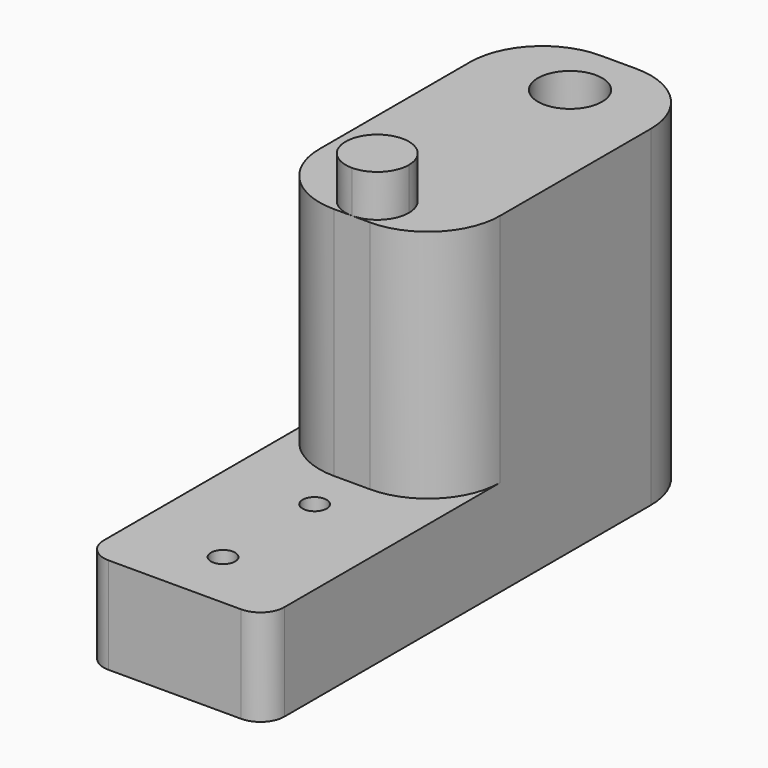
from build123d import *

# Parameters (mm, degrees)
F0_R     = 1
F2_DEPTH = 8
F0_R_2   = 2.667
F3_DEPTH = 27.5
F4_DEPTH = 31
F5_DEPTH = 23.5


with BuildPart() as f2:
    # F0 (on Top) → F2 (new body)
    with BuildSketch(Plane.XY):
        with BuildLine():
            Line((1.5, 24.5531070977), (0, 24.5531070977))
            Line((0, 24.5531070977), (-1.5, 24.5531070977))
            ThreePointArc((-1.5, 24.5531070977), (-5.7426406871, 26.3104664106), (-7.5, 30.5531070977))
            Line((-7.5, 30.5531070977), (-7.5, 8.1781070977))
            ThreePointArc((-7.5, 8.1781070977), (-6.9142135624, 6.7638935354), (-5.5, 6.1781070977))
            Line((-5.5, 6.1781070977), (5.5, 6.1781070977))
            ThreePointArc((5.5, 6.1781070977), (6.9142135624, 6.7638935354), (7.5, 8.1781070977))
            Line((7.5, 8.1781070977), (7.5, 30.5531070977))
            ThreePointArc((7.5, 30.5531070977), (5.7426406871, 26.3104664106), (1.5, 24.5531070977))
        make_face()
        with Locations((0, 11.1781070977)):
            Circle(F0_R, mode=Mode.SUBTRACT)
        with Locations((0, 20.6781070977)):
            Circle(F0_R, mode=Mode.SUBTRACT)
    extrude(amount=F2_DEPTH)

    # F0 (on Top) → F3 (join)
    with BuildSketch(Plane.XY):
        with BuildLine():
            Line((-1.5, 24.5531070977), (0, 24.5531070977))
            Line((0, 24.5531070977), (1.5, 24.5531070977))
            ThreePointArc((1.5, 24.5531070977), (5.7426406871, 26.3104664106), (7.5, 30.5531070977))
            Line((7.5, 30.5531070977), (7.5, 46.1781070977))
            ThreePointArc((7.5, 46.1781070977), (5.7426406871, 50.4207477849), (1.5, 52.1781070977))
            Line((1.5, 52.1781070977), (-1.5, 52.1781070977))
            ThreePointArc((-1.5, 52.1781070977), (-5.7426406871, 50.4207477849), (-7.5, 46.1781070977))
            Line((-7.5, 46.1781070977), (-7.5, 30.5531070977))
            ThreePointArc((-7.5, 30.5531070977), (-5.7426406871, 26.3104664106), (-1.5, 24.5531070977))
        make_face()
        with BuildLine():
            ThreePointArc((0, 24.5531070977), (-1.8561553006, 29.0342623984), (2.625, 27.1781070977))
            ThreePointArc((2.625, 27.1781070977), (1.8561553006, 25.3219517971), (0, 24.5531070977))
        make_face(mode=Mode.SUBTRACT)
        with Locations((0, 47.1781070977)):
            Circle(F0_R_2, mode=Mode.SUBTRACT)
        with BuildLine():
            ThreePointArc((0, 24.5531070977), (1.8561553006, 25.3219517971), (2.625, 27.1781070977))
            ThreePointArc((2.625, 27.1781070977), (-1.8561553006, 29.0342623984), (0, 24.5531070977))
        make_face()
    extrude(amount=F3_DEPTH)

    # F0 (on Top) → F4 (join)
    with BuildSketch(Plane.XY):
        with BuildLine():
            ThreePointArc((0, 24.5531070977), (1.8561553006, 25.3219517971), (2.625, 27.1781070977))
            ThreePointArc((2.625, 27.1781070977), (-1.8561553006, 29.0342623984), (0, 24.5531070977))
        make_face()
    extrude(amount=F4_DEPTH)

    # F0 (on Top) → F5 (join)
    with BuildSketch(Plane.XY):
        with Locations((0, 47.1781070977)):
            Circle(F0_R_2)
    extrude(amount=F5_DEPTH)


solid = f2.part
